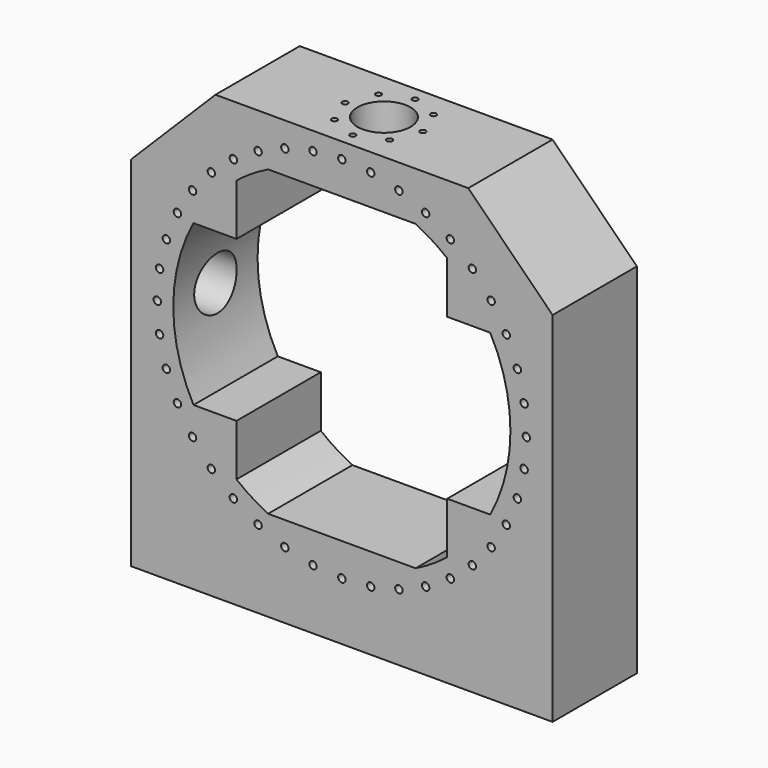
from build123d import *

# Parameters (mm, degrees)
F0_W      = 500
F0_H      = 525
F1_DEPTH  = 125
F2_D      = 8.8
F2_DEPTH  = 23.75
F2_TIP    = 2.6437867237
F3_SIZE   = 100
F5_D      = 8.8
F5_DEPTH  = 23.75
F5_TIP    = 2.6437867237
F6_R      = 31.5
F7_DEPTH  = 57.6563178758
F8_D      = 6.8
F8_DEPTH  = 19.75
F8_TIP    = 2.0429261047
F9_R      = 31.5
F10_DEPTH = 53.4962026682
F11_D     = 6.8
F11_DEPTH = 19.75
F11_TIP   = 2.0429261047


with BuildPart() as f1:
    # F0 (on Front) → F1 (new body)
    with BuildSketch(Plane.XZ):
        with Locations((0, -25)):
            Rectangle(F0_W, F0_H)
        with BuildLine():
            ThreePointArc((-175.997159068, -95), (-200, 0), (-175.997159068, 95))
            Line((-175.997159068, 95), (-125, 95))
            Line((-125, 95), (-125, 156.12494996))
            ThreePointArc((-125, 156.12494996), (-106.9098080808, 169.0274916578), (-87.5, 179.8436821242))
            Line((-87.5, 179.8436821242), (87.5, 179.8436821242))
            ThreePointArc((87.5, 179.8436821242), (106.9098080808, 169.0274916578), (125, 156.12494996))
            Line((125, 156.12494996), (125, 95))
            Line((125, 95), (175.997159068, 95))
            ThreePointArc((175.997159068, 95), (200, 0), (175.997159068, -95))
            Line((175.997159068, -95), (125, -95))
            Line((125, -95), (125, -156.12494996))
            ThreePointArc((125, -156.12494996), (106.9098080808, -169.0274916578), (87.5, -179.8436821242))
            Line((87.5, -179.8436821242), (-87.5, -179.8436821242))
            ThreePointArc((-87.5, -179.8436821242), (-106.9098080808, -169.0274916578), (-125, -156.12494996))
            Line((-125, -156.12494996), (-125, -95))
            Line((-125, -95), (-175.997159068, -95))
        make_face(mode=Mode.SUBTRACT)
    extrude(amount=F1_DEPTH)

    # F2
    with Locations(Plane(origin=(0, 0, 0), x_dir=(1, 0, 0), z_dir=(0, 1, 0))):
        with Locations((-218.95, 0), (-216.2543621733, -34.2513261206), (-208.2338242428, -67.6592709184), (-195.085878471, -99.401219918), (-177.1342709184, -128.6955809894), (-154.8210297408, -154.8210297408), (-128.6955809894, -177.1342709184), (-99.401219918, -195.085878471), (-67.6592709184, -208.2338242428), (-34.2513261206, -216.2543621733), (0, -218.95), (34.2513261206, -216.2543621733), (67.6592709184, -208.2338242428), (99.401219918, -195.085878471), (128.6955809894, -177.1342709184), (154.8210297408, -154.8210297408), (177.1342709184, -128.6955809894), (195.085878471, -99.401219918), (208.2338242428, -67.6592709184), (216.2543621733, -34.2513261206), (218.95, 0), (216.2543621733, 34.2513261206), (208.2338242428, 67.6592709184), (195.085878471, 99.401219918), (177.1342709184, 128.6955809894), (154.8210297408, 154.8210297408), (128.6955809894, 177.1342709184), (99.401219918, 195.085878471), (67.6592709184, 208.2338242428), (34.2513261206, 216.2543621733), (0, 218.95), (-34.2513261206, 216.2543621733), (-67.6592709184, 208.2338242428), (-99.401219918, 195.085878471), (-128.6955809894, 177.1342709184), (-154.8210297408, 154.8210297408), (-177.1342709184, 128.6955809894), (-195.085878471, 99.401219918), (-208.2338242428, 67.6592709184), (-216.2543621733, 34.2513261206)):
            Hole(F2_D / 2, depth=F2_DEPTH)
            with Locations((0, 0, -(F2_DEPTH + F2_TIP / 2))):  # 118° drill point
                Cone(0, F2_D / 2, F2_TIP, mode=Mode.SUBTRACT)

    # F3
    f3_edges = [f1.edges().sort_by_distance(p)[0] for p in [
        (-250, -62.5, 237.5),
        (250, -62.5, 237.5),
    ]]
    chamfer(f3_edges, length=F3_SIZE)

    # F5
    with Locations(Plane.XZ.offset(125)):
        with Locations((218.95, 0), (216.2543621733, 34.2513261206), (208.2338242428, 67.6592709184), (195.085878471, 99.401219918), (177.1342709184, 128.6955809894), (154.8210297408, 154.8210297408), (128.6955809894, 177.1342709184), (99.401219918, 195.085878471), (67.6592709184, 208.2338242428), (34.2513261206, 216.2543621733), (0, 218.95), (-34.2513261206, 216.2543621733), (-67.6592709184, 208.2338242428), (-99.401219918, 195.085878471), (-128.6955809894, 177.1342709184), (-154.8210297408, 154.8210297408), (-177.1342709184, 128.6955809894), (-195.085878471, 99.401219918), (-208.2338242428, 67.6592709184), (-216.2543621733, 34.2513261206), (-218.95, 0), (-216.2543621733, -34.2513261206), (-208.2338242428, -67.6592709184), (-195.085878471, -99.401219918), (-177.1342709184, -128.6955809894), (-154.8210297408, -154.8210297408), (-128.6955809894, -177.1342709184), (-99.401219918, -195.085878471), (-67.6592709184, -208.2338242428), (-34.2513261206, -216.2543621733), (0, -218.95), (34.2513261206, -216.2543621733), (67.6592709184, -208.2338242428), (99.401219918, -195.085878471), (128.6955809894, -177.1342709184), (154.8210297408, -154.8210297408), (177.1342709184, -128.6955809894), (195.085878471, -99.401219918), (208.2338242428, -67.6592709184), (216.2543621733, -34.2513261206)):
            Hole(F5_D / 2, depth=F5_DEPTH)
            with Locations((0, 0, -(F5_DEPTH + F5_TIP / 2))):  # 118° drill point
                Cone(0, F5_D / 2, F5_TIP, mode=Mode.SUBTRACT)

    # F6 (on face) → F7 (cut, through all)
    with BuildSketch(Plane.XY.offset(237.5)):
        with Locations((0, -62.5)):
            Circle(F6_R)
    extrude(amount=-F7_DEPTH, mode=Mode.SUBTRACT)

    # F8
    with Locations(Plane.XY.offset(237.5)):
        with Locations((46.15, -62.5), (32.6329779518, -95.1329779518), (0, -108.65), (-32.6329779518, -95.1329779518), (-46.15, -62.5), (-32.6329779518, -29.8670220482), (0, -16.35), (32.6329779518, -29.8670220482)):
            Hole(F8_D / 2, depth=F8_DEPTH)
            with Locations((0, 0, -(F8_DEPTH + F8_TIP / 2))):  # 118° drill point
                Cone(0, F8_D / 2, F8_TIP, mode=Mode.SUBTRACT)

    # F9 (on face) → F10 (cut, up to face)
    with BuildSketch(Plane(origin=(-250, 0, 0), x_dir=(0, -1, 0), z_dir=(-1, 0, 0))):
        with Locations((62.5, 0)):
            Circle(F9_R)
    extrude(amount=-F10_DEPTH, mode=Mode.SUBTRACT)

    # F11
    with Locations(Plane(origin=(-250, 0, 0), x_dir=(0, -1, 0), z_dir=(-1, 0, 0))):
        with Locations((62.5, 46.1), (95.0976226127, 32.5976226127), (108.6, 0), (95.0976226127, -32.5976226127), (62.5, -46.1), (29.9023773873, -32.5976226127), (16.4, 0), (29.9023773873, 32.5976226127)):
            Hole(F11_D / 2, depth=F11_DEPTH)
            with Locations((0, 0, -(F11_DEPTH + F11_TIP / 2))):  # 118° drill point
                Cone(0, F11_D / 2, F11_TIP, mode=Mode.SUBTRACT)


solid = f1.part
